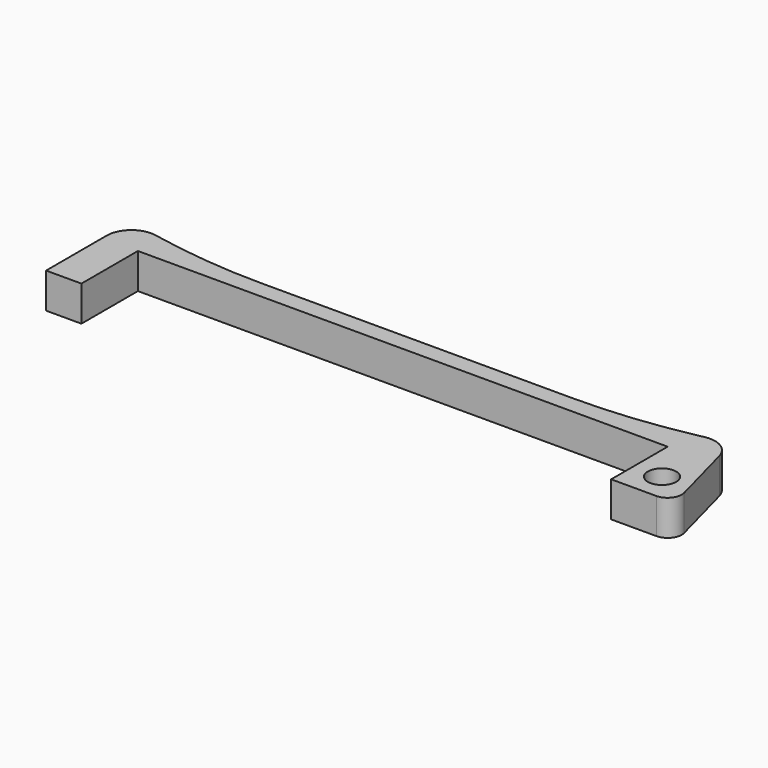
from build123d import *

# Parameters (mm, degrees)
SKETCH_R    = 4
PAD_DEPTH   = 10
FILLET_R    = 7
FILLET001_R = 162
FILLET002_R = 4


with BuildPart() as part:
    # Sketch → Pad (new body)
    with BuildSketch(Plane.XY):
        Polygon((-75, -20), (-75, 0), (75, 0), (75, -20), (93, -20), (85, 10), (60, 5), (-60, 5), (-85, 10), (-85, -20), align=None)
        with Locations((83, -12)):
            Circle(SKETCH_R, mode=Mode.SUBTRACT)
    extrude(amount=PAD_DEPTH)

    # Fillet
    fillet_edges = [part.edges().sort_by_distance(p)[0] for p in [
        (85, 10, 5),
        (-85, 10, 5),
    ]]
    fillet(fillet_edges, radius=FILLET_R)

    # Fillet001
    fillet001_edges = [part.edges().sort_by_distance(p)[0] for p in [
        (-60, 5, 5),
        (60, 5, 5),
    ]]
    fillet(fillet001_edges, radius=FILLET001_R)

    # Fillet002
    fillet002_edges = [part.edges().sort_by_distance(p)[0] for p in [
        (93, -20, 5),
    ]]
    fillet(fillet002_edges, radius=FILLET002_R)


solid = part.part
